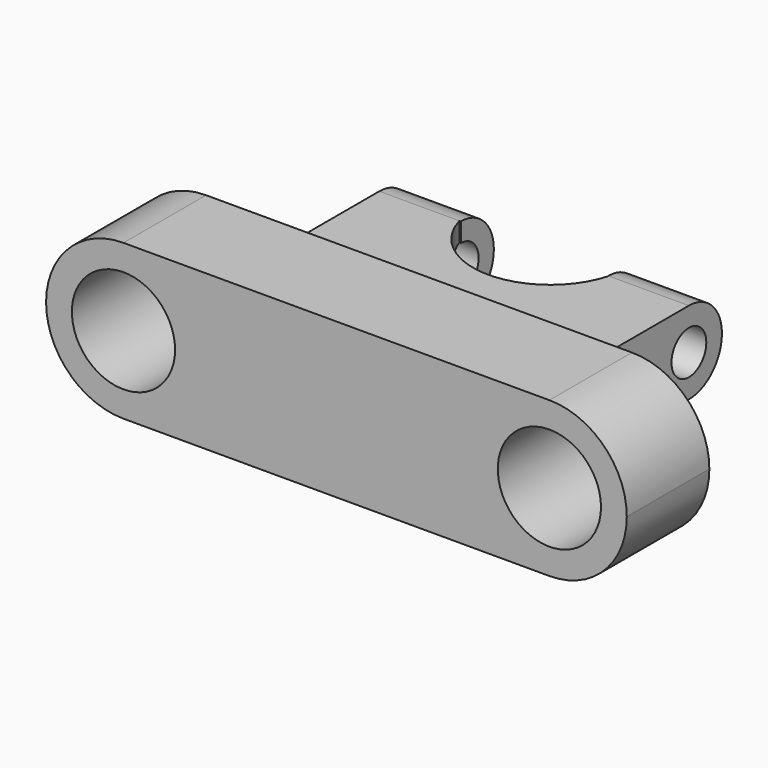
from build123d import *

# Parameters (mm, degrees)
F0_R      = 12.7
F1_DEPTH  = 25.4
F3_DEPTH  = 10.16
F4_DEPTH  = 10.16
F6_DEPTH  = 20.066
F8_DEPTH  = 19.812
F9_R      = 5.46143
F11_DEPTH = 25.4
F10_R     = 5.353375
F12_DEPTH = 25.4


with BuildPart() as f1:
    # F0 (on Front) → F1 (new body)
    with BuildSketch(Plane.XZ):
        with BuildLine():
            ThreePointArc((-52.411983, 19.05), (-38.941599, 13.470384), (-33.361983, 0))
            ThreePointArc((-33.361983, 0), (-38.941599, -13.470384), (-52.411983, -19.05))
            Line((-52.411983, -19.05), (52.411983, -19.05))
            ThreePointArc((52.411983, -19.05), (33.361983, 0), (52.411983, 19.05))
            Line((52.411983, 19.05), (-52.411983, 19.05))
        make_face()
        with BuildLine():
            ThreePointArc((-52.411983, -19.05), (-38.941599, -13.470384), (-33.361983, 0))
            ThreePointArc((-33.361983, 0), (-38.941599, 13.470384), (-52.411983, 19.05))
            ThreePointArc((-52.411983, 19.05), (-71.461983, 0), (-52.411983, -19.05))
        make_face()
        with Locations((-52.411983, 0)):
            Circle(F0_R, mode=Mode.SUBTRACT)
        with BuildLine():
            ThreePointArc((71.461983, 0), (65.882367, 13.470384), (52.411983, 19.05))
            ThreePointArc((52.411983, 19.05), (33.361983, 0), (52.411983, -19.05))
            ThreePointArc((52.411983, -19.05), (65.882367, -13.470384), (71.461983, 0))
        make_face()
        with Locations((52.411983, 0)):
            Circle(F0_R, mode=Mode.SUBTRACT)
    extrude(amount=F1_DEPTH)

    # F2 (on Top) → F3 (join)
    with BuildSketch(Plane.XY):
        with BuildLine():
            Line((-38.1, 0), (0, 0))
            Line((0, 0), (38.1, 0))
            Line((38.1, 0), (38.1, 35.410588))
            Line((38.1, 35.410588), (18.377647, 35.410588))
            ThreePointArc((18.377647, 35.410588), (0, 21.363075), (-18.377647, 35.410588))
            Line((-18.377647, 35.410588), (-38.1, 35.410588))
            Line((-38.1, 35.410588), (-38.1, 0))
        make_face()
    extrude(amount=F3_DEPTH)

    # F3_face (on face) → F4 (join)
    with BuildSketch(Plane(origin=(0, 15.751851, 0), x_dir=(1, 0, 0), z_dir=(0, 0, -1))):
        with BuildLine():
            Line((38.1, 15.751851), (-38.1, 15.751851))
            Line((-38.1, 15.751851), (-38.1, -19.658738))
            Line((-38.1, -19.658738), (-18.377647, -19.658738))
            ThreePointArc((-18.377647, -19.658738), (0, -5.611224), (18.377647, -19.658738))
            Line((18.377647, -19.658738), (38.1, -19.658738))
            Line((38.1, -19.658738), (38.1, 15.751851))
        make_face()
    extrude(amount=F4_DEPTH)

    # F5 (on face) → F6 (join)
    with BuildSketch(Plane(origin=(-38.1, 0, 0), x_dir=(0, -1, 0), z_dir=(-1, 0, 0))):
        with BuildLine():
            Line((-35.410588, -10.16), (-35.410588, 10.16))
            ThreePointArc((-35.410588, 10.16), (-45.570588, 0), (-35.410588, -10.16))
        make_face()
    extrude(amount=-F6_DEPTH)

    # F7 (on face) → F8 (join)
    with BuildSketch(Plane.YZ.offset(38.1)):
        with BuildLine():
            Line((35.410588, 10.16), (35.410588, -10.16))
            ThreePointArc((35.410588, -10.16), (45.570588, 0), (35.410588, 10.16))
        make_face()
    extrude(amount=-F8_DEPTH)

    # F9 (on face) → F11 (cut)
    with BuildSketch(Plane(origin=(-38.1, 0, 0), x_dir=(0, -1, 0), z_dir=(-1, 0, 0))):
        with Locations((-35.410588, 0)):
            Circle(F9_R)
    extrude(amount=-F11_DEPTH, mode=Mode.SUBTRACT)

    # F10 (on face) → F12 (cut)
    with BuildSketch(Plane.YZ.offset(38.1)):
        with Locations((35.410588, 0)):
            Circle(F10_R)
    extrude(amount=-F12_DEPTH, mode=Mode.SUBTRACT)


solid = f1.part
